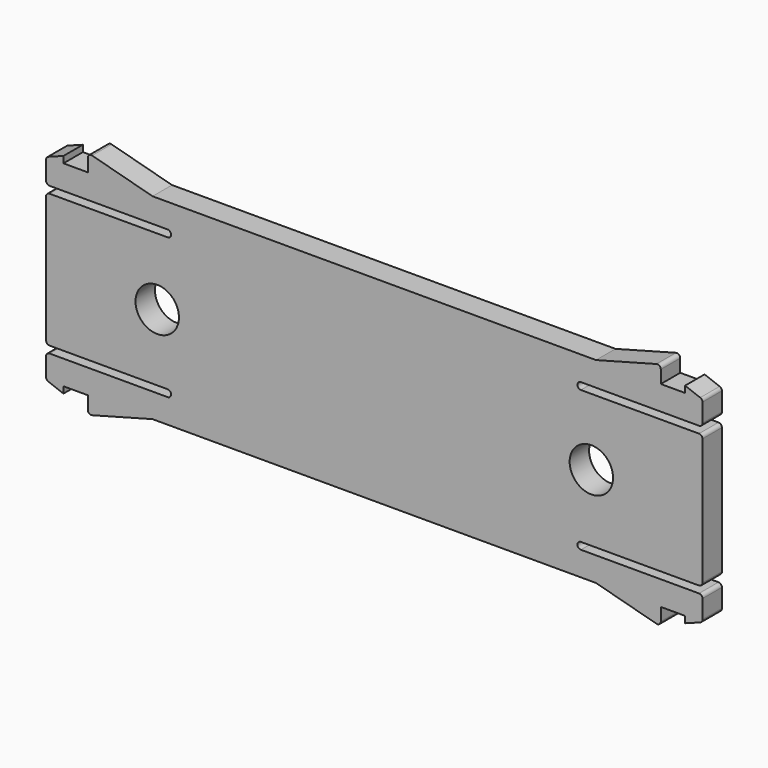
from build123d import *

# Parameters (mm, degrees)
PAD010_DEPTH    = 2.8
FILLET003_R     = 0.4
SKETCH016_R     = 2.5
POCKET008_DEPTH = 2.801


with BuildPart() as part:
    # Sketch010 (on Face2 of ShapeBinder009) → Pad010 (new body)
    with BuildSketch(Plane.XZ.offset(25.388718)):
        with BuildLine():
            Line((37.8, 63.127675), (37.8, 60.327675))
            Line((37.8, 60.327675), (23.8, 60.327675))
            ThreePointArc((23.8, 60.327675), (23.4, 59.927675), (23.8, 59.527675))
            Line((23.8, 59.527675), (37.8, 59.527675))
            Line((37.8, 59.527675), (37.8, 44.127675))
            Line((37.8, 44.127675), (23.8, 44.127675))
            ThreePointArc((23.8, 44.127675), (23.4, 43.727675), (23.8, 43.327675))
            Line((23.8, 43.327675), (37.8, 43.327675))
            Line((37.8, 43.327675), (37.8, 40.527675))
            Line((37.8, 40.527675), (35.8, 39.777675))
            Line((35.8, 40.527675), (35.8, 39.777675))
            Line((35.8, 40.527675), (33, 40.527675))
            Line((33, 40.527675), (33, 38.527675))
            Line((33, 38.527675), (25.535898, 40.527675))
            Line((25.535898, 40.527675), (-25.535898, 40.527675))
            Line((-25.535898, 40.527675), (-33, 38.527675))
            Line((-33, 38.527675), (-33, 40.527675))
            Line((-33, 40.527675), (-35.8, 40.527675))
            Line((-35.8, 40.527675), (-35.8, 39.777675))
            Line((-37.8, 40.527675), (-35.8, 39.777675))
            Line((-37.8, 40.527675), (-37.8, 43.327675))
            Line((-37.8, 43.327675), (-23.8, 43.327675))
            ThreePointArc((-23.8, 43.327675), (-23.4, 43.727675), (-23.8, 44.127675))
            Line((-23.8, 44.127675), (-37.8, 44.127675))
            Line((-37.8, 44.127675), (-37.8, 59.527675))
            Line((-37.8, 59.527675), (-23.8, 59.527675))
            ThreePointArc((-23.8, 59.527675), (-23.4, 59.927675), (-23.8, 60.327675))
            Line((-23.8, 60.327675), (-37.8, 60.327675))
            Line((-37.8, 60.327675), (-37.8, 63.127675))
            Line((-35.8, 63.877675), (-37.8, 63.127675))
            Line((-35.8, 63.127675), (-35.8, 63.877675))
            Line((-35.8, 63.127675), (-33, 63.127675))
            Line((-33, 63.127675), (-33, 65.127675))
            Line((-33, 65.127675), (-25.535898, 63.127675))
            Line((-25.535898, 63.127675), (25.535898, 63.127675))
            Line((25.535898, 63.127675), (33, 65.127675))
            Line((33, 65.127675), (33, 63.127675))
            Line((33, 63.127675), (35.8, 63.127675))
            Line((35.8, 63.127675), (35.8, 63.877675))
            Line((35.8, 63.877675), (37.8, 63.127675))
        make_face()
    extrude(amount=-PAD010_DEPTH)

    # Fillet003
    fillet003_edges = [part.edges().sort_by_distance(p)[0] for p in [
        (33, -23.988718, 65.127675),
        (37.8, -23.988718, 63.127675),
        (37.8, -23.988718, 60.327675),
        (37.8, -23.988718, 59.527675),
        (37.8, -23.988718, 44.127675),
        (37.8, -23.988718, 43.327675),
        (37.8, -23.988718, 40.527675),
        (33, -23.988718, 38.527675),
        (-33, -23.988718, 65.127675),
        (-37.8, -23.988718, 63.127675),
        (-37.8, -23.988718, 60.327675),
        (-37.8, -23.988718, 59.527675),
        (-37.8, -23.988718, 44.127675),
        (-37.8, -23.988718, 43.327675),
        (-37.8, -23.988718, 40.527675),
        (-33, -23.988718, 38.527675),
    ]]
    fillet(fillet003_edges, radius=FILLET003_R)

    # Sketch016 (on Face2 of Fillet003) → Pocket008 (cut, through all)
    with BuildSketch(Plane.XZ.offset(25.388718)):
        with Locations((-25, 51.827675)):
            Circle(SKETCH016_R)
        with Locations((25, 51.827675)):
            Circle(SKETCH016_R)
    extrude(amount=-POCKET008_DEPTH, mode=Mode.SUBTRACT)


solid = part.part
